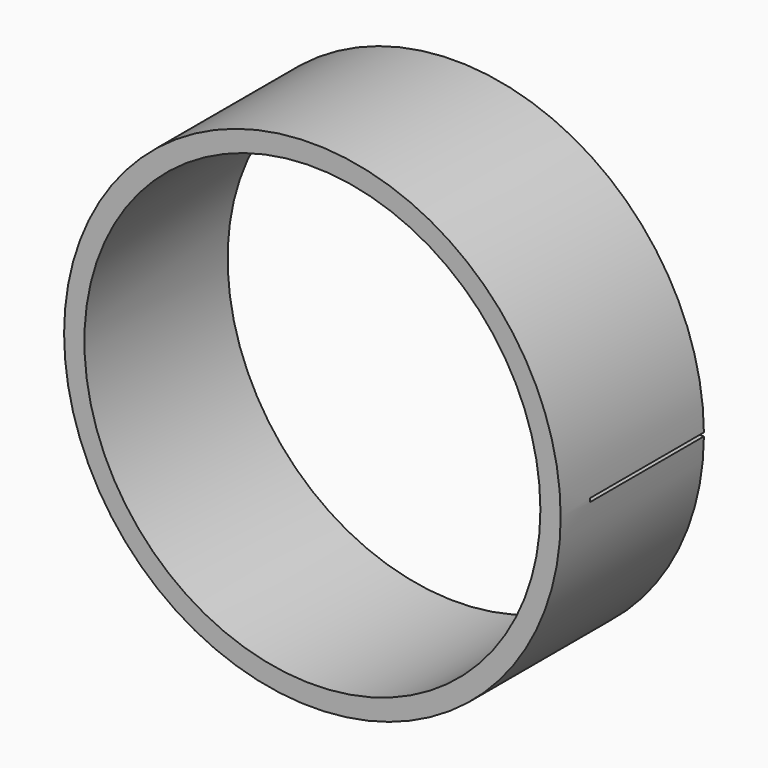
from build123d import *

# Parameters (mm, degrees)
F0_R     = 211.3534
F0_R_2   = 194.0814
F1_DEPTH = 152.4
F2_W     = 120.9976747632
F2_H     = 2.9972
F3_DEPTH = 253.746


with BuildPart() as f1:
    # F0 (on Front) → F1 (new body)
    with BuildSketch(Plane.XZ):
        Circle(F0_R)
        Circle(F0_R_2, mode=Mode.SUBTRACT)
    extrude(amount=F1_DEPTH)

    # F2 (on Right) → F3 (cut)
    with BuildSketch(Plane.YZ):
        with Locations((-60.4988373816, 0)):
            Rectangle(F2_W, F2_H)
    extrude(amount=F3_DEPTH, mode=Mode.SUBTRACT)


solid = f1.part
